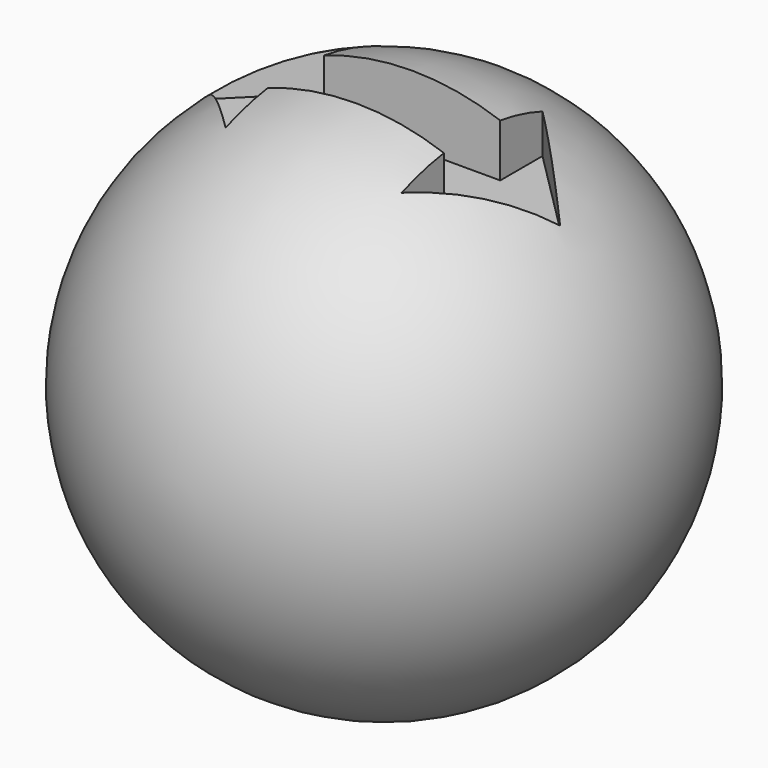
from build123d import *

# Parameters (mm, degrees)
F4_DEPTH = 30.001
F5_W     = 6
F5_H     = 7
F6_DEPTH = 13
F8_W     = 10
F8_H     = 4
F9_DEPTH = 7


with BuildPart() as f1:
    # F0 (on Right) → F1 (revolve)
    with BuildSketch(Plane.YZ):
        with BuildLine():
            Line((-30, 0), (0, 0))
            ThreePointArc((0, 0), (-15, 15), (-30, 0))
        make_face()
    revolve(axis=Axis((0, -15, 0), (0, -1, 0)))

    # F3 (on offset) → F4 (cut, through all)
    with BuildSketch(Plane.XY.offset(15)):
        with BuildLine():
            Line((15, 0), (0, 0))
            Line((0, 0), (-15, 0))
            ThreePointArc((-15, 0), (0, -3), (15, 0))
        make_face()
    extrude(amount=-F4_DEPTH, mode=Mode.SUBTRACT)

    # F5 (on Front) → F6 (cut)
    with BuildSketch(Plane.XZ):
        Rectangle(F5_W, F5_H)
    extrude(amount=F6_DEPTH, mode=Mode.SUBTRACT)

    # F8 (on offset) → F9 (cut)
    with BuildSketch(Plane.XY.offset(18)):
        with Locations((0, -15)):
            Rectangle(F8_W, F8_H)
        Polygon((-5, -17), (-5, -13), (-5, -10), (-10, -15), (-5, -20), align=None)
        Polygon((5, -10), (5, -13), (5, -17), (5, -20), (10, -15), align=None)
    extrude(amount=-F9_DEPTH, mode=Mode.SUBTRACT)


solid = f1.part
